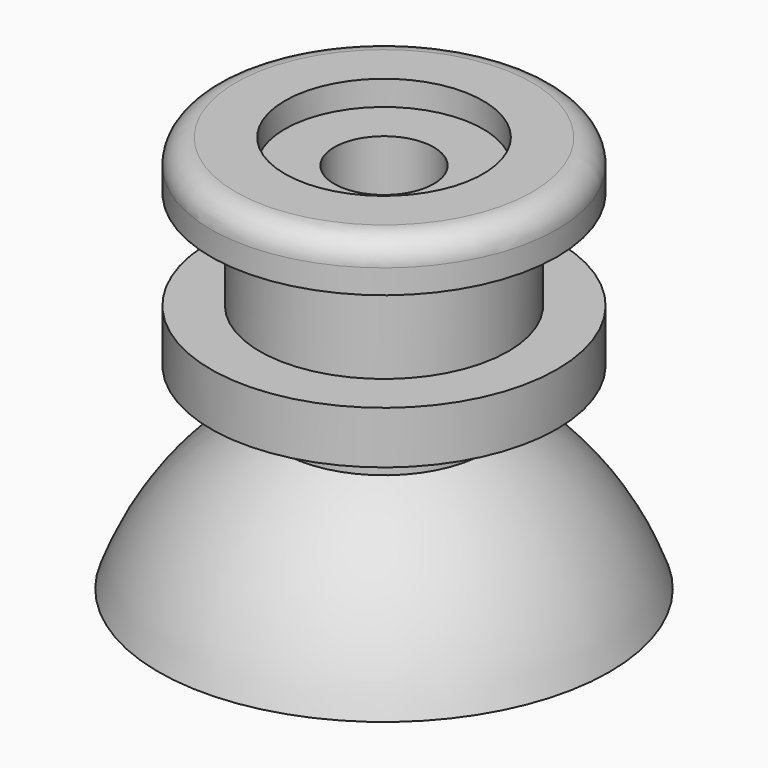
from build123d import *

# Parameters (mm, degrees)
SKETCH002_R  = 1.993559
POCKET_DEPTH = 0.5
FILLET_R     = 0.5


with BuildPart() as part:
    # Sketch → Revolution (revolve)
    with BuildSketch(Plane.XZ):
        with BuildLine():
            ThreePointArc((3.985235, 0), (2.344302, 1.802426), (0, 2.47))
            Line((0, 7.993666), (0, 2.47))
            Line((3.4821, 7.993666), (0, 7.993666))
            Line((3.4821, 7.008655), (3.4821, 7.993666))
            Line((2.5, 7.008655), (3.4821, 7.008655))
            Line((2.5, 5.015182), (2.5, 7.008655))
            Line((3.4821, 5.015182), (2.5, 5.015182))
            Line((3.4821, 3.959811), (3.4821, 5.015182))
            Line((2.050408, 3.959811), (3.4821, 3.959811))
            Line((2.050408, 3.075381), (2.050408, 3.959811))
            ThreePointArc((4.536749, 0), (3.55737, 1.750957), (2.050408, 3.075381))
            Line((3.985235, 0), (4.536749, 0))
        make_face()
    revolve(axis=Axis((0, 0, 0), (0, 0, 1)))

    # Sketch001 → Groove (revolve, cut)
    with BuildSketch(Plane.XZ):
        Polygon((1, 8.108983), (1, 4.197927), (1.533167, 2.20812), (0, 2.398983), (0, 8.108983), align=None)
    revolve(axis=Axis((0, 0, 0), (0, 0, 1)), mode=Mode.SUBTRACT)

    # Sketch002 (on Face8 of Groove) → Pocket (cut)
    with BuildSketch(Plane(origin=(0, 0, 7.993666), x_dir=(-1, 0, 0), z_dir=(0, 0, 1))):
        Circle(SKETCH002_R)
    extrude(amount=-POCKET_DEPTH, mode=Mode.SUBTRACT)

    # Fillet
    fillet_edges = [part.edges().sort_by_distance(p)[0] for p in [
        (-3.4821, 0, 7.993666),
    ]]
    fillet(fillet_edges, radius=FILLET_R)


solid = part.part
